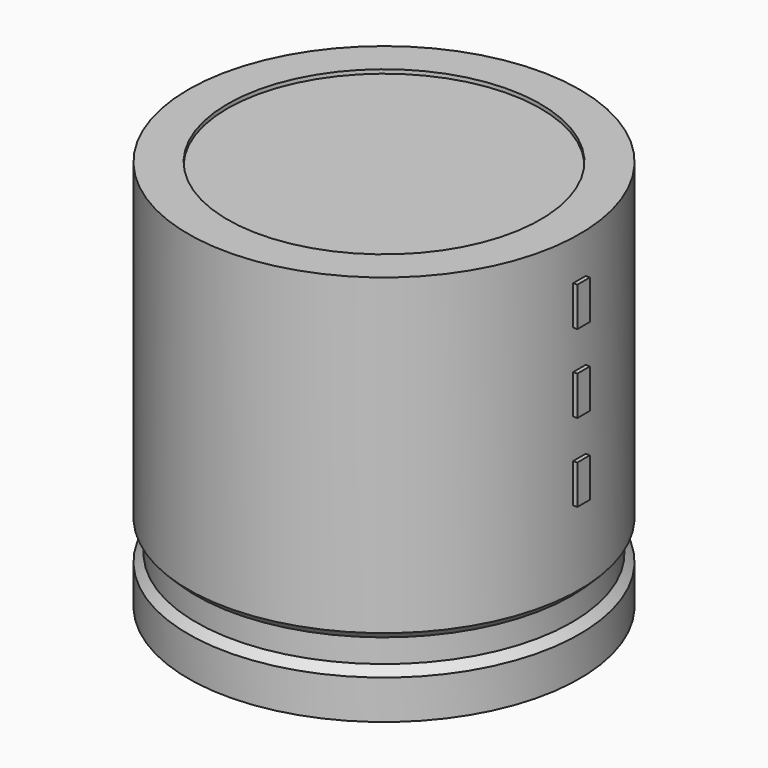
from build123d import *

# Parameters (mm, degrees)
SKETCH002_W  = 18.4
SKETCH002_H  = 39.2
SKETCH003_R  = 0.85
PAD_DEPTH    = 7
SKETCH004_W  = 1.6
SKETCH004_H  = 4
PAD001_DEPTH = 20.4


with BuildPart() as revolution:
    # Sketch → Revolution (revolve)
    with BuildSketch(Plane.XZ):
        Polygon((-15, 0.1), (-15, 4.1), (-14.2, 4.9), (-14.2, 7.3), (-15, 8.1), (-15, 40.1), (-11, 40.1), (-11, 0.1), align=None)
    revolve(axis=Axis((5, 0, 7.548619), (0, 0, -1)))


with BuildPart() as revolution001:
    # Sketch002 → Revolution001 (revolve)
    with BuildSketch(Plane.XZ):
        with Locations((-4.2, 20.1)):
            Rectangle(SKETCH002_W, SKETCH002_H)
    revolve(axis=Axis((5, 0, 4.680116), (0, 0, -1)))


with BuildPart() as pad:
    # Sketch003 → Pad (new body)
    with BuildSketch(Plane.XY.offset(4)):
        Circle(SKETCH003_R)
        with Locations((10, 0)):
            Circle(SKETCH003_R)
    extrude(amount=-PAD_DEPTH)


with BuildPart() as pad001:
    # Sketch004 → Pad001 (new body)
    with BuildSketch(Plane.YZ.offset(5)):
        with Locations((0, 18)):
            Rectangle(SKETCH004_W, SKETCH004_H)
        with Locations((0, 26)):
            Rectangle(SKETCH004_W, SKETCH004_H)
        with Locations((0, 34)):
            Rectangle(SKETCH004_W, SKETCH004_H)
    extrude(amount=PAD001_DEPTH)


solid = Compound([revolution.part, revolution001.part, pad.part, pad001.part])
